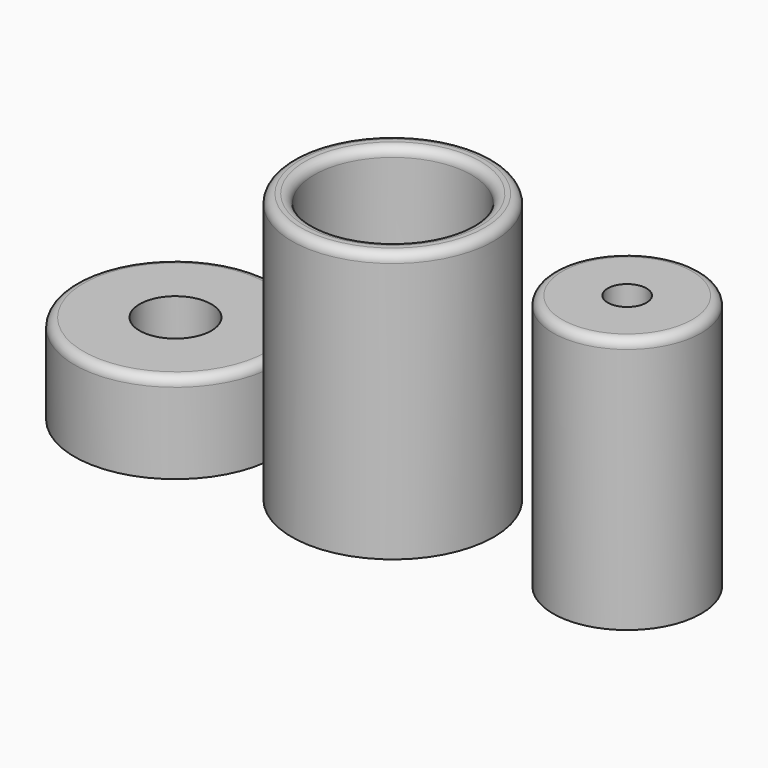
from build123d import *

# Parameters (mm, degrees)
F0_R     = 22.5
F1_DEPTH = 60
F2_T     = -5
F3_R     = 16.5
F4_DEPTH = 57
F5_R     = 22.5
F6_DEPTH = 20
F7_R     = 2
F7_2_R   = 2
F7_3_R   = 2
F8_R     = 8
F8_R_2   = 4.3206160925
F9_DEPTH = 104.9


with BuildPart() as f1:
    # F0 (on Top) → F1 (new body)
    with BuildSketch(Plane.XY):
        Circle(F0_R)
    extrude(amount=F1_DEPTH)

    # F2
    f2_openings = [f1.faces().sort_by_distance(p)[0] for p in [
        (0, 0, 60),
    ]]
    offset(amount=F2_T, openings=f2_openings)

    # F7#2
    f7_2_edges = [f1.edges().sort_by_distance(p)[0] for p in [
        (-17.5, 0, 60),
        (-22.5, 0, 60),
    ]]
    fillet(f7_2_edges, radius=F7_2_R)


with BuildPart() as f4:
    # F3 (on Top) → F4 (new body)
    with BuildSketch(Plane.XY):
        with Locations((52.1893501282, 0)):
            Circle(F3_R)
    extrude(amount=F4_DEPTH)

    # F7
    f7_edges = [f4.edges().sort_by_distance(p)[0] for p in [
        (35.68935, 0, 57),
    ]]
    fillet(f7_edges, radius=F7_R)


with BuildPart() as f6:
    # F5 (on Top) → F6 (new body)
    with BuildSketch(Plane.XY):
        with Locations((-48.3888917542, 0)):
            Circle(F5_R)
    extrude(amount=F6_DEPTH)

    # F7#3
    f7_3_edges = [f6.edges().sort_by_distance(p)[0] for p in [
        (-70.888892, 0, 20),
    ]]
    fillet(f7_3_edges, radius=F7_3_R)


with BuildPart() as f9_tool:
    # F8 (on Top) → F9 (new body)
    with BuildSketch(Plane.XY):
        with Locations((-48.3888917542, 0)):
            Circle(F8_R)
        with Locations((52.1893501282, 0)):
            Circle(F8_R_2)
        Circle(F8_R)
    extrude(amount=F9_DEPTH)


with BuildPart() as f1_1:
    add(f1.part)

    # F9: cut by f9_tool
    add(f9_tool.part, mode=Mode.SUBTRACT)


with BuildPart() as f4_1:
    add(f4.part)

    # F9: cut by f9_tool
    add(f9_tool.part, mode=Mode.SUBTRACT)


with BuildPart() as f6_1:
    add(f6.part)

    # F9: cut by f9_tool
    add(f9_tool.part, mode=Mode.SUBTRACT)


solid = Compound([f1_1.part, f4_1.part, f6_1.part])
